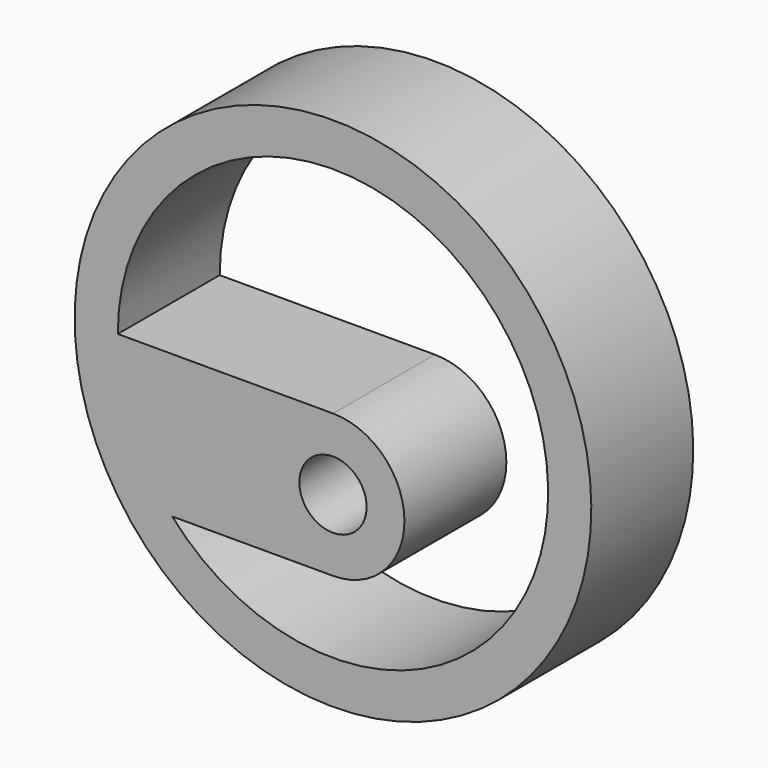
from build123d import *

# Parameters (mm, degrees)
F0_R      = 13.137742
F1_DEPTH  = 49.784
F1_FACE_W = 49.784
F1_FACE_H = 55.855792


with BuildPart() as f1:
    # F0 (on Front) → F1 (new body)
    with BuildSketch(Plane.XZ):
        with BuildLine():
            Line((25.885448, 34.804828), (-58.201034, 34.804828))
            Line((-58.201034, 34.804828), (-58.201034, -21.050964))
            Line((-58.201034, -21.050964), (25.885448, -21.050964))
            ThreePointArc((25.885448, -21.050964), (53.813344, 6.876932), (25.885448, 34.804828))
        make_face()
        with Locations((25.885448, 6.876932)):
            Circle(F0_R, mode=Mode.SUBTRACT)
    extrude(amount=F1_DEPTH)

    # F1_face (on face) → F2 (revolve)
    with BuildSketch(Plane(origin=(-58.201034, -24.892, 6.876932), x_dir=(0, -1, 0), z_dir=(-1, 0, 0))):
        Rectangle(F1_FACE_W, F1_FACE_H)
    revolve(axis=Axis((25.885448, -24.892, 34.804828), (0, -1, 0)))


solid = f1.part
